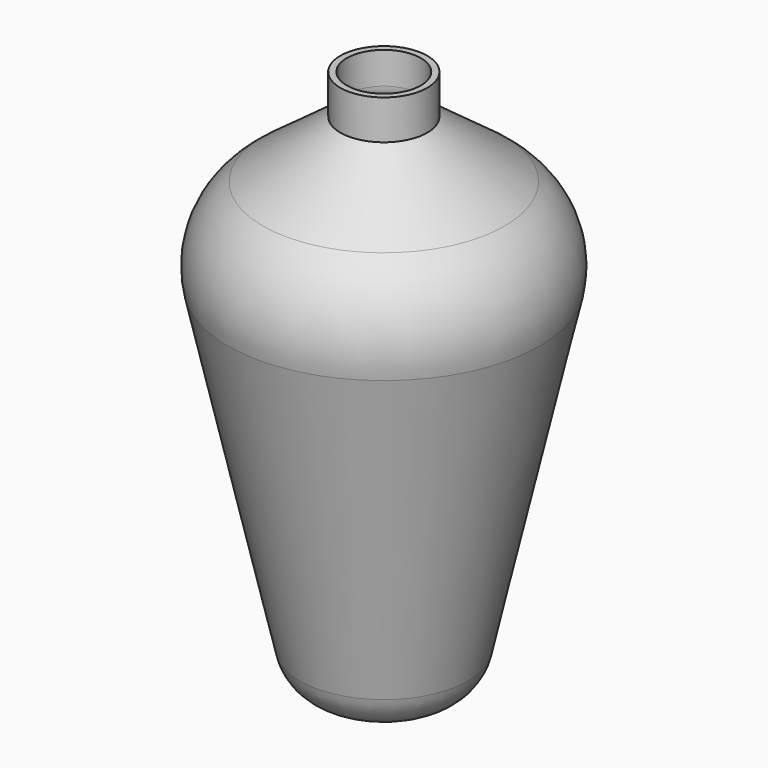
from build123d import *


with BuildPart() as f1:
    # F0 (on Front) → F1 (revolve)
    with BuildSketch(Plane.XZ):
        with BuildLine():
            Line((-8.672933, 64.904793), (-8.672933, 72.37691))
            Line((-8.672933, 72.37691), (-10.172933, 72.37691))
            Line((-10.172933, 72.37691), (-10.172933, 63.135275))
            Line((-10.172933, 63.135275), (-28.288878, 49.798655))
            ThreePointArc((-28.288878, 49.798655), (-35.684392, 40.004785), (-36.517139, 27.7606))
            Line((-36.517139, 27.7606), (-19.750516, -46.685134))
            ThreePointArc((-19.750516, -46.685134), (-15.714587, -53.139143), (-8.531531, -55.658401))
            Line((-8.531531, -55.658401), (0, -55.658401))
            Line((0, -55.658401), (0, -54.158401))
            Line((0, -54.158401), (-8.531531, -54.158401))
            ThreePointArc((-8.531531, -54.158401), (-14.777667, -51.967742), (-18.28717, -46.35556))
            Line((-18.28717, -46.35556), (-35.053793, 28.090174))
            ThreePointArc((-35.053793, 28.090174), (-34.279145, 39.480113), (-27.399597, 48.59069))
            Line((-27.399597, 48.59069), (-10.708663, 60.878244))
            ThreePointArc((-10.708663, 60.878244), (-9.210795, 62.64884), (-8.672933, 64.904793))
        make_face()
    revolve(axis=Axis((0, 0, -54.908401), (0, 0, 1)))


solid = f1.part
